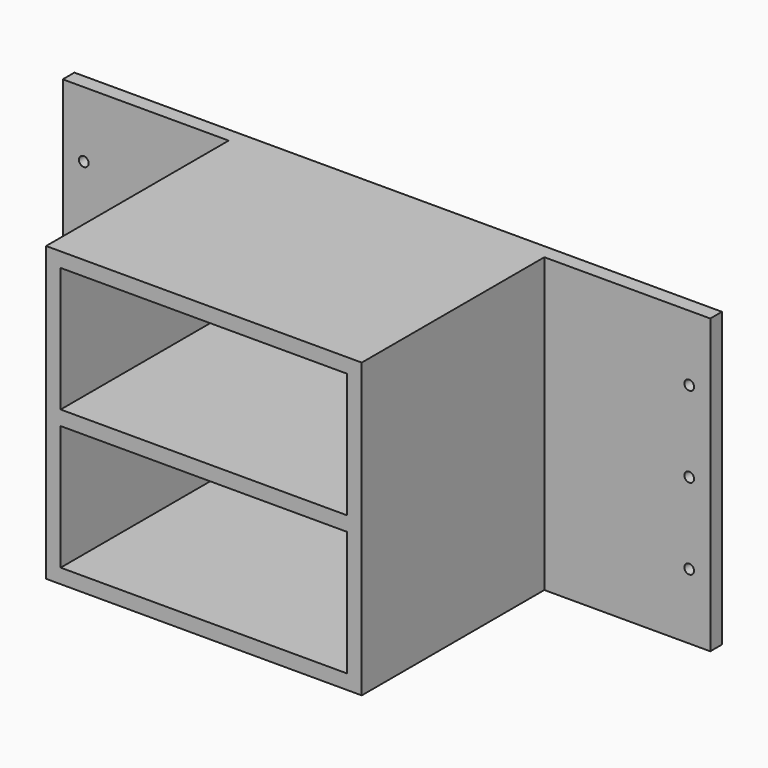
from build123d import *

# Parameters (mm, degrees)
F0_W     = 177
F0_H     = 9
F1_DEPTH = 150
F2_W     = 400
F2_H     = 181
F2_R     = 3
F3_DEPTH = 9
F4_DEPTH = 150


with BuildPart() as f1:
    # F0 (on Front) → F1 (new body)
    with BuildSketch(Plane.XZ):
        Rectangle(F0_W, F0_H)
        with Locations((0, -86)):
            Rectangle(F0_W, F0_H)
        with Locations((0, 86)):
            Rectangle(F0_W, F0_H)
    extrude(amount=F1_DEPTH)

    # F2 (on face) → F3 (join)
    with BuildSketch(Plane(origin=(0, 0, 0), x_dir=(-1, 0, 0), z_dir=(0, 1, 0))):
        Rectangle(F2_W, F2_H)
        with Locations((-187, -50)):
            Circle(F2_R, mode=Mode.SUBTRACT)
        with Locations((187, -50)):
            Circle(F2_R, mode=Mode.SUBTRACT)
        with Locations((-187, 0)):
            Circle(F2_R, mode=Mode.SUBTRACT)
        with Locations((-187, 50)):
            Circle(F2_R, mode=Mode.SUBTRACT)
        with Locations((187, 0)):
            Circle(F2_R, mode=Mode.SUBTRACT)
        with Locations((187, 50)):
            Circle(F2_R, mode=Mode.SUBTRACT)
        Rectangle(F2_W, F2_H)
        with Locations((-187, -50)):
            Circle(F2_R, mode=Mode.SUBTRACT)
        with Locations((187, -50)):
            Circle(F2_R, mode=Mode.SUBTRACT)
        with Locations((-187, 0)):
            Circle(F2_R, mode=Mode.SUBTRACT)
        with Locations((-187, 50)):
            Circle(F2_R, mode=Mode.SUBTRACT)
        with Locations((187, 0)):
            Circle(F2_R, mode=Mode.SUBTRACT)
        with Locations((187, 50)):
            Circle(F2_R, mode=Mode.SUBTRACT)
    extrude(amount=-F3_DEPTH)

    # F0 (on Front) → F4 (join)
    with BuildSketch(Plane.XZ):
        Polygon((-88.5, -81.5), (-88.5, -4.5), (-88.5, 4.5), (-88.5, 81.5), (-88.5, 90.5), (-97.5, 90.5), (-97.5, -90.5), (-88.5, -90.5), align=None)
        Polygon((88.5, 4.5), (88.5, -4.5), (88.5, -81.5), (88.5, -90.5), (97.5, -90.5), (97.5, 90.5), (88.5, 90.5), (88.5, 81.5), align=None)
    extrude(amount=F4_DEPTH)


solid = f1.part
